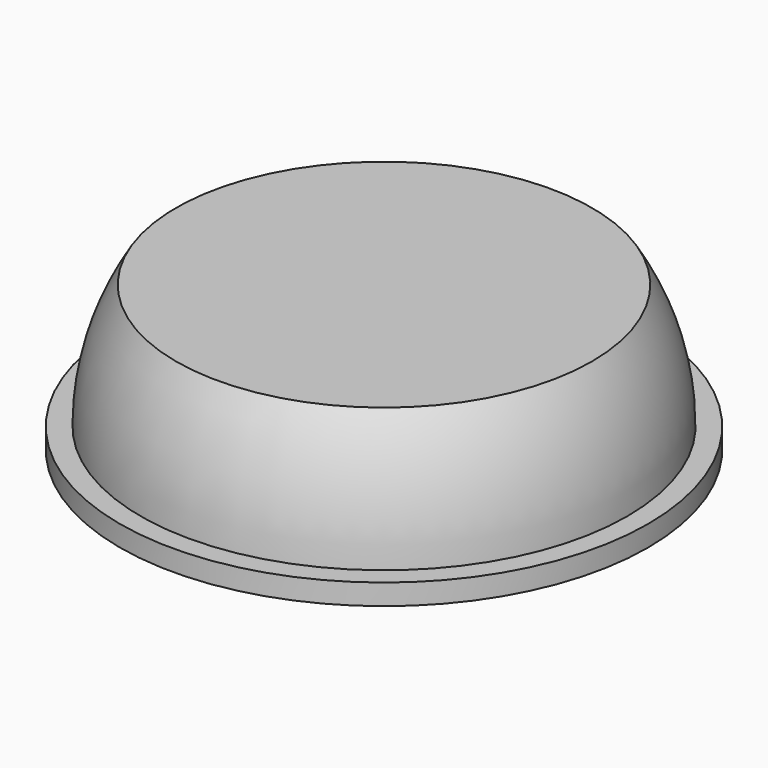
from build123d import *


with BuildPart() as part:
    # Sketch → Revolution (revolve)
    with BuildSketch(Plane.XZ):
        with BuildLine():
            Line((0, 0), (0, 3.5))
            Line((0, 3.5), (5, 3.5))
            ThreePointArc((5.85, 0.5), (5.633398, 2.059046), (5, 3.5))
            Line((6.35, 0.5), (5.85, 0.5))
            Line((6.35, 0), (6.35, 0.5))
            Line((0, 0), (6.35, 0))
        make_face()
    revolve(axis=Axis((0, 0, 0), (0, 0, 1)))


solid = part.part
